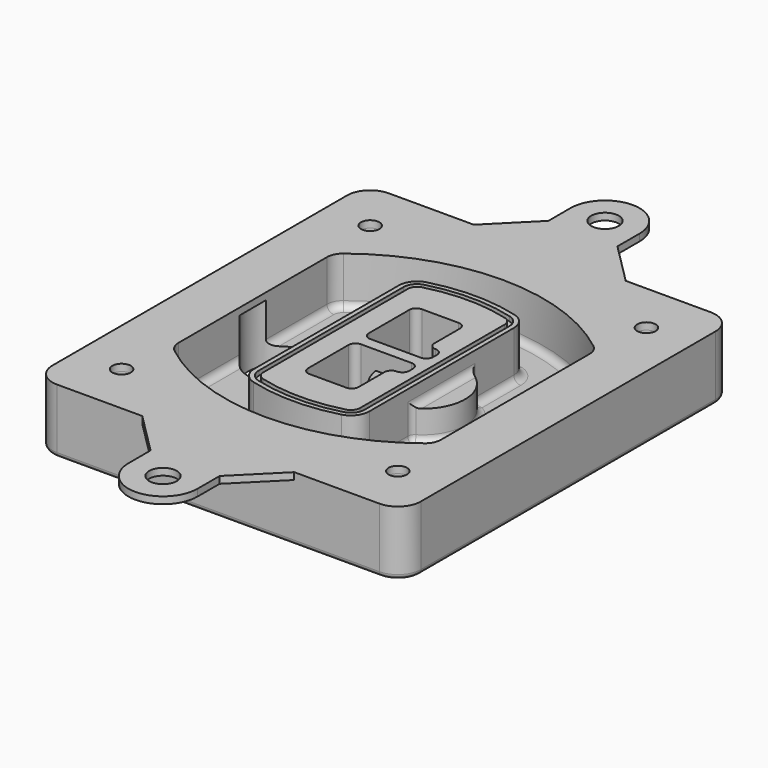
from build123d import *

# Parameters (mm, degrees)
F0_R      = 4
F1_DEPTH  = 25
F2_DEPTH  = 3
F3_DEPTH  = 18
F5_DEPTH  = 21
F6_DEPTH  = 2
F8_DEPTH  = 20
F9_DEPTH  = 16
F10_DEPTH = 25
F7_R      = 6
F7_R_2    = 4
F11_DEPTH = 6
F13_DEPTH = 9
F14_R     = 3
F15_R     = 2
F16_R     = 6
F16_R_2   = 4
F17_DEPTH = 3


with BuildPart() as f1:
    # F0 (on Top) → F1 (new body)
    with BuildSketch(Plane.XY):
        with BuildLine():
            ThreePointArc((-80, -80), (-77.0710678119, -87.0710678119), (-70, -90))
            Line((-70, -90), (70, -90))
            ThreePointArc((70, -90), (77.0710678119, -87.0710678119), (80, -80))
            Line((80, -80), (80, 80))
            ThreePointArc((80, 80), (77.0710678119, 87.0710678119), (70, 90))
            Line((70, 90), (-70, 90))
            ThreePointArc((-70, 90), (-77.0710678119, 87.0710678119), (-80, 80))
            Line((-80, 80), (-80, -80))
        make_face()
        with Locations((-60, -67.5)):
            Circle(F0_R, mode=Mode.SUBTRACT)
        with Locations((60, -67.5)):
            Circle(F0_R, mode=Mode.SUBTRACT)
        with Locations((-60, 67.5)):
            Circle(F0_R, mode=Mode.SUBTRACT)
        with BuildLine():
            ThreePointArc((-64, 40.2934422872), (-62.5820384798, 46.4328484224), (-58.6153846154, 51.3286200352))
            ThreePointArc((-58.6153846154, 51.3286200352), (0, 71.5), (58.6153846154, 51.3286200352))
            ThreePointArc((58.6153846154, 51.3286200352), (62.5820384798, 46.4328484224), (64, 40.2934422872))
            Line((64, 40.2934422872), (64, -40.2934422872))
            ThreePointArc((64, -40.2934422872), (62.5820384798, -46.4328484224), (58.6153846154, -51.3286200352))
            ThreePointArc((58.6153846154, -51.3286200352), (0, -71.5), (-58.6153846154, -51.3286200352))
            ThreePointArc((-58.6153846154, -51.3286200352), (-62.5820384798, -46.4328484224), (-64, -40.2934422872))
            Line((-64, -40.2934422872), (-64, 40.2934422872))
        make_face(mode=Mode.SUBTRACT)
        with Locations((60, 67.5)):
            Circle(F0_R, mode=Mode.SUBTRACT)
        with BuildLine():
            ThreePointArc((58.6153846154, 51.3286200352), (0, 71.5), (-58.6153846154, 51.3286200352))
            ThreePointArc((-58.6153846154, 51.3286200352), (-62.5820384798, 46.4328484224), (-64, 40.2934422872))
            Line((-64, 40.2934422872), (-64, -40.2934422872))
            ThreePointArc((-64, -40.2934422872), (-62.5820384798, -46.4328484224), (-58.6153846154, -51.3286200352))
            ThreePointArc((-58.6153846154, -51.3286200352), (0, -71.5), (58.6153846154, -51.3286200352))
            ThreePointArc((58.6153846154, -51.3286200352), (62.5820384798, -46.4328484224), (64, -40.2934422872))
            Line((64, -40.2934422872), (64, 40.2934422872))
            ThreePointArc((64, 40.2934422872), (62.5820384798, 46.4328484224), (58.6153846154, 51.3286200352))
        make_face()
        with BuildLine():
            Line((-60, -40.2934422872), (-60, 40.2934422872))
            ThreePointArc((-60, 40.2934422872), (-58.9871703427, 44.6787323838), (-56.1538461538, 48.1757121072))
            ThreePointArc((-56.1538461538, 48.1757121072), (0, 67.5), (56.1538461538, 48.1757121072))
            ThreePointArc((56.1538461538, 48.1757121072), (58.9871703427, 44.6787323838), (60, 40.2934422872))
            Line((60, 40.2934422872), (60, -40.2934422872))
            ThreePointArc((60, -40.2934422872), (58.9871703427, -44.6787323838), (56.1538461538, -48.1757121072))
            ThreePointArc((56.1538461538, -48.1757121072), (0, -67.5), (-56.1538461538, -48.1757121072))
            ThreePointArc((-56.1538461538, -48.1757121072), (-58.9871703427, -44.6787323838), (-60, -40.2934422872))
        make_face(mode=Mode.SUBTRACT)
        with BuildLine():
            ThreePointArc((-56.1538461538, 48.1757121072), (-58.9871703427, 44.6787323838), (-60, 40.2934422872))
            Line((-60, 40.2934422872), (-60, -40.2934422872))
            ThreePointArc((-60, -40.2934422872), (-58.9871703427, -44.6787323838), (-56.1538461538, -48.1757121072))
            ThreePointArc((-56.1538461538, -48.1757121072), (0, -67.5), (56.1538461538, -48.1757121072))
            ThreePointArc((56.1538461538, -48.1757121072), (58.9871703427, -44.6787323838), (60, -40.2934422872))
            Line((60, -40.2934422872), (60, 40.2934422872))
            ThreePointArc((60, 40.2934422872), (58.9871703427, 44.6787323838), (56.1538461538, 48.1757121072))
            ThreePointArc((56.1538461538, 48.1757121072), (0, 67.5), (-56.1538461538, 48.1757121072))
        make_face()
        with BuildLine():
            ThreePointArc((54.3076923077, 45.8110311612), (56.2910192399, 43.3631453548), (57, 40.2934422872))
            Line((57, 40.2934422872), (57, -40.2934422872))
            ThreePointArc((57, -40.2934422872), (56.2910192399, -43.3631453548), (54.3076923077, -45.8110311612))
            ThreePointArc((54.3076923077, -45.8110311612), (0, -64.5), (-54.3076923077, -45.8110311612))
            ThreePointArc((-54.3076923077, -45.8110311612), (-56.2910192399, -43.3631453548), (-57, -40.2934422872))
            Line((-57, -40.2934422872), (-57, 40.2934422872))
            ThreePointArc((-57, 40.2934422872), (-56.2910192399, 43.3631453548), (-54.3076923077, 45.8110311612))
            ThreePointArc((-54.3076923077, 45.8110311612), (0, 64.5), (54.3076923077, 45.8110311612))
        make_face(mode=Mode.SUBTRACT)
        with BuildLine():
            Line((57, -40.2934422872), (57, 40.2934422872))
            ThreePointArc((57, 40.2934422872), (56.2910192399, 43.3631453548), (54.3076923077, 45.8110311612))
            ThreePointArc((54.3076923077, 45.8110311612), (0, 64.5), (-54.3076923077, 45.8110311612))
            ThreePointArc((-54.3076923077, 45.8110311612), (-56.2910192399, 43.3631453548), (-57, 40.2934422872))
            Line((-57, 40.2934422872), (-57, -40.2934422872))
            ThreePointArc((-57, -40.2934422872), (-56.2910192399, -43.3631453548), (-54.3076923077, -45.8110311612))
            ThreePointArc((-54.3076923077, -45.8110311612), (0, -64.5), (54.3076923077, -45.8110311612))
            ThreePointArc((54.3076923077, -45.8110311612), (56.2910192399, -43.3631453548), (57, -40.2934422872))
        make_face()
    extrude(amount=-F1_DEPTH)

    # F0 (on Top) → F2 (join)
    with BuildSketch(Plane.XY):
        with BuildLine():
            ThreePointArc((-56.1538461538, 48.1757121072), (-58.9871703427, 44.6787323838), (-60, 40.2934422872))
            Line((-60, 40.2934422872), (-60, -40.2934422872))
            ThreePointArc((-60, -40.2934422872), (-58.9871703427, -44.6787323838), (-56.1538461538, -48.1757121072))
            ThreePointArc((-56.1538461538, -48.1757121072), (0, -67.5), (56.1538461538, -48.1757121072))
            ThreePointArc((56.1538461538, -48.1757121072), (58.9871703427, -44.6787323838), (60, -40.2934422872))
            Line((60, -40.2934422872), (60, 40.2934422872))
            ThreePointArc((60, 40.2934422872), (58.9871703427, 44.6787323838), (56.1538461538, 48.1757121072))
            ThreePointArc((56.1538461538, 48.1757121072), (0, 67.5), (-56.1538461538, 48.1757121072))
        make_face()
        with BuildLine():
            ThreePointArc((54.3076923077, 45.8110311612), (56.2910192399, 43.3631453548), (57, 40.2934422872))
            Line((57, 40.2934422872), (57, -40.2934422872))
            ThreePointArc((57, -40.2934422872), (56.2910192399, -43.3631453548), (54.3076923077, -45.8110311612))
            ThreePointArc((54.3076923077, -45.8110311612), (0, -64.5), (-54.3076923077, -45.8110311612))
            ThreePointArc((-54.3076923077, -45.8110311612), (-56.2910192399, -43.3631453548), (-57, -40.2934422872))
            Line((-57, -40.2934422872), (-57, 40.2934422872))
            ThreePointArc((-57, 40.2934422872), (-56.2910192399, 43.3631453548), (-54.3076923077, 45.8110311612))
            ThreePointArc((-54.3076923077, 45.8110311612), (0, 64.5), (54.3076923077, 45.8110311612))
        make_face(mode=Mode.SUBTRACT)
    extrude(amount=F2_DEPTH)

    # F0 (on Top) → F3 (cut)
    with BuildSketch(Plane.XY):
        with BuildLine():
            Line((57, -40.2934422872), (57, 40.2934422872))
            ThreePointArc((57, 40.2934422872), (56.2910192399, 43.3631453548), (54.3076923077, 45.8110311612))
            ThreePointArc((54.3076923077, 45.8110311612), (0, 64.5), (-54.3076923077, 45.8110311612))
            ThreePointArc((-54.3076923077, 45.8110311612), (-56.2910192399, 43.3631453548), (-57, 40.2934422872))
            Line((-57, 40.2934422872), (-57, -40.2934422872))
            ThreePointArc((-57, -40.2934422872), (-56.2910192399, -43.3631453548), (-54.3076923077, -45.8110311612))
            ThreePointArc((-54.3076923077, -45.8110311612), (0, -64.5), (54.3076923077, -45.8110311612))
            ThreePointArc((54.3076923077, -45.8110311612), (56.2910192399, -43.3631453548), (57, -40.2934422872))
        make_face()
    extrude(amount=-F3_DEPTH, mode=Mode.SUBTRACT)

    # F4 (on face) → F5 (join, through all)
    with BuildSketch(Plane.XY.offset(3)):
        with BuildLine():
            ThreePointArc((-25, -39.2465276821), (-23.3511545998, -44.1109737193), (-19.0842911877, -46.9702398883))
            ThreePointArc((-19.0842911877, -46.9702398883), (0, -49.5), (19.0842911877, -46.9702398883))
            ThreePointArc((19.0842911877, -46.9702398883), (23.3511545998, -44.1109737193), (25, -39.2465276821))
            Line((25, -39.2465276821), (25, 39.2465276821))
            ThreePointArc((25, 39.2465276821), (23.3511545998, 44.1109737193), (19.0842911877, 46.9702398883))
            ThreePointArc((19.0842911877, 46.9702398883), (0, 49.5), (-19.0842911877, 46.9702398883))
            ThreePointArc((-19.0842911877, 46.9702398883), (-23.3511545998, 44.1109737193), (-25, 39.2465276821))
            Line((-25, 39.2465276821), (-25, -39.2465276821))
        make_face()
        with BuildLine():
            ThreePointArc((18.5632183908, 45.0393118368), (21.7633659499, 42.89486221), (23, 39.2465276821))
            Line((23, 39.2465276821), (23, -39.2465276821))
            ThreePointArc((23, -39.2465276821), (21.7633659499, -42.89486221), (18.5632183908, -45.0393118368))
            ThreePointArc((18.5632183908, -45.0393118368), (0, -47.5), (-18.5632183908, -45.0393118368))
            ThreePointArc((-18.5632183908, -45.0393118368), (-21.7633659499, -42.89486221), (-23, -39.2465276821))
            Line((-23, -39.2465276821), (-23, 39.2465276821))
            ThreePointArc((-23, 39.2465276821), (-21.7633659499, 42.89486221), (-18.5632183908, 45.0393118368))
            ThreePointArc((-18.5632183908, 45.0393118368), (0, 47.5), (18.5632183908, 45.0393118368))
        make_face(mode=Mode.SUBTRACT)
        with BuildLine():
            Line((23, -39.2465276821), (23, 39.2465276821))
            ThreePointArc((23, 39.2465276821), (21.7633659499, 42.89486221), (18.5632183908, 45.0393118368))
            ThreePointArc((18.5632183908, 45.0393118368), (0, 47.5), (-18.5632183908, 45.0393118368))
            ThreePointArc((-18.5632183908, 45.0393118368), (-21.7633659499, 42.89486221), (-23, 39.2465276821))
            Line((-23, 39.2465276821), (-23, -39.2465276821))
            ThreePointArc((-23, -39.2465276821), (-21.7633659499, -42.89486221), (-18.5632183908, -45.0393118368))
            ThreePointArc((-18.5632183908, -45.0393118368), (0, -47.5), (18.5632183908, -45.0393118368))
            ThreePointArc((18.5632183908, -45.0393118368), (21.7633659499, -42.89486221), (23, -39.2465276821))
        make_face()
        with BuildLine():
            ThreePointArc((18.0421455939, 43.1083837852), (20.1755772999, 41.6787507007), (21, 39.2465276821))
            Line((21, 39.2465276821), (21, -39.2465276821))
            ThreePointArc((21, -39.2465276821), (20.1755772999, -41.6787507007), (18.0421455939, -43.1083837852))
            ThreePointArc((18.0421455939, -43.1083837852), (0, -45.5), (-18.0421455939, -43.1083837852))
            ThreePointArc((-18.0421455939, -43.1083837852), (-20.1755772999, -41.6787507007), (-21, -39.2465276821))
            Line((-21, -39.2465276821), (-21, 39.2465276821))
            ThreePointArc((-21, 39.2465276821), (-20.1755772999, 41.6787507007), (-18.0421455939, 43.1083837852))
            ThreePointArc((-18.0421455939, 43.1083837852), (0, 45.5), (18.0421455939, 43.1083837852))
        make_face(mode=Mode.SUBTRACT)
        with BuildLine():
            Line((21, -39.2465276821), (21, 39.2465276821))
            ThreePointArc((21, 39.2465276821), (20.1755772999, 41.6787507007), (18.0421455939, 43.1083837852))
            ThreePointArc((18.0421455939, 43.1083837852), (0, 45.5), (-18.0421455939, 43.1083837852))
            ThreePointArc((-18.0421455939, 43.1083837852), (-20.1755772999, 41.6787507007), (-21, 39.2465276821))
            Line((-21, 39.2465276821), (-21, -39.2465276821))
            ThreePointArc((-21, -39.2465276821), (-20.1755772999, -41.6787507007), (-18.0421455939, -43.1083837852))
            ThreePointArc((-18.0421455939, -43.1083837852), (0, -45.5), (18.0421455939, -43.1083837852))
            ThreePointArc((18.0421455939, -43.1083837852), (20.1755772999, -41.6787507007), (21, -39.2465276821))
        make_face()
        with BuildLine():
            Line((-8, -2.5), (14, -2.5))
            ThreePointArc((14, -2.5), (16.1213203436, -3.3786796564), (17, -5.5))
            Line((17, -5.5), (17, -7.5))
            ThreePointArc((17, -7.5), (16.1213203436, -9.6213203436), (14, -10.5))
            ThreePointArc((14, -10.5), (11.8786796564, -11.3786796564), (11, -13.5))
            Line((11, -13.5), (11, -27.5))
            ThreePointArc((11, -27.5), (10.1213203436, -29.6213203436), (8, -30.5))
            Line((8, -30.5), (-8, -30.5))
            ThreePointArc((-8, -30.5), (-10.1213203436, -29.6213203436), (-11, -27.5))
            Line((-11, -27.5), (-11, -5.5))
            ThreePointArc((-11, -5.5), (-10.1213203436, -3.3786796564), (-8, -2.5))
        make_face(mode=Mode.SUBTRACT)
        with BuildLine():
            ThreePointArc((-8, 2.5), (-10.1213203436, 3.3786796564), (-11, 5.5))
            Line((-11, 5.5), (-11, 27.5))
            ThreePointArc((-11, 27.5), (-10.1213203436, 29.6213203436), (-8, 30.5))
            Line((-8, 30.5), (8, 30.5))
            ThreePointArc((8, 30.5), (10.1213203436, 29.6213203436), (11, 27.5))
            Line((11, 27.5), (11, 13.5))
            ThreePointArc((11, 13.5), (11.8786796564, 11.3786796564), (14, 10.5))
            ThreePointArc((14, 10.5), (16.1213203436, 9.6213203436), (17, 7.5))
            Line((17, 7.5), (17, 5.5))
            ThreePointArc((17, 5.5), (16.1213203436, 3.3786796564), (14, 2.5))
            Line((14, 2.5), (-8, 2.5))
        make_face(mode=Mode.SUBTRACT)
    extrude(amount=-F5_DEPTH)

    # F4 (on face) → F6 (cut)
    with BuildSketch(Plane.XY.offset(3)):
        with BuildLine():
            Line((23, -39.2465276821), (23, 39.2465276821))
            ThreePointArc((23, 39.2465276821), (21.7633659499, 42.89486221), (18.5632183908, 45.0393118368))
            ThreePointArc((18.5632183908, 45.0393118368), (0, 47.5), (-18.5632183908, 45.0393118368))
            ThreePointArc((-18.5632183908, 45.0393118368), (-21.7633659499, 42.89486221), (-23, 39.2465276821))
            Line((-23, 39.2465276821), (-23, -39.2465276821))
            ThreePointArc((-23, -39.2465276821), (-21.7633659499, -42.89486221), (-18.5632183908, -45.0393118368))
            ThreePointArc((-18.5632183908, -45.0393118368), (0, -47.5), (18.5632183908, -45.0393118368))
            ThreePointArc((18.5632183908, -45.0393118368), (21.7633659499, -42.89486221), (23, -39.2465276821))
        make_face()
        with BuildLine():
            ThreePointArc((18.0421455939, 43.1083837852), (20.1755772999, 41.6787507007), (21, 39.2465276821))
            Line((21, 39.2465276821), (21, -39.2465276821))
            ThreePointArc((21, -39.2465276821), (20.1755772999, -41.6787507007), (18.0421455939, -43.1083837852))
            ThreePointArc((18.0421455939, -43.1083837852), (0, -45.5), (-18.0421455939, -43.1083837852))
            ThreePointArc((-18.0421455939, -43.1083837852), (-20.1755772999, -41.6787507007), (-21, -39.2465276821))
            Line((-21, -39.2465276821), (-21, 39.2465276821))
            ThreePointArc((-21, 39.2465276821), (-20.1755772999, 41.6787507007), (-18.0421455939, 43.1083837852))
            ThreePointArc((-18.0421455939, 43.1083837852), (0, 45.5), (18.0421455939, 43.1083837852))
        make_face(mode=Mode.SUBTRACT)
    extrude(amount=-F6_DEPTH, mode=Mode.SUBTRACT)

    # F7 (on face) → F8 (join)
    with BuildSketch(Plane(origin=(0, 0, -25), x_dir=(1, 0, 0), z_dir=(0, 0, -1))):
        with BuildLine():
            ThreePointArc((3.28842436, 0), (16.7567035675, 13.4682792075), (30.224982775, 0))
            Line((30.224982775, 0), (35.224982775, 0))
            ThreePointArc((35.224982775, 0), (16.7567035675, 18.4682792075), (-1.71157564, 0))
            Line((-1.71157564, 0), (3.28842436, 0))
        make_face()
        with BuildLine():
            Line((3.28842436, 0), (30.224982775, 0))
            ThreePointArc((30.224982775, 0), (16.7567035675, 13.4682792075), (3.28842436, 0))
        make_face()
        with BuildLine():
            ThreePointArc((3.28842436, 0), (16.7567035675, -13.4682792075), (30.224982775, 0))
            Line((30.224982775, 0), (3.28842436, 0))
        make_face()
        with BuildLine():
            Line((35.224982775, 0), (30.224982775, 0))
            ThreePointArc((30.224982775, 0), (16.7567035675, -13.4682792075), (3.28842436, 0))
            Line((3.28842436, 0), (-1.71157564, 0))
            ThreePointArc((-1.71157564, 0), (16.7567035675, -18.4682792075), (35.224982775, 0))
        make_face()
    extrude(amount=-F8_DEPTH)

    # F7 (on face) → F9 (cut)
    with BuildSketch(Plane(origin=(0, 0, -25), x_dir=(1, 0, 0), z_dir=(0, 0, -1))):
        with BuildLine():
            Line((3.28842436, 0), (30.224982775, 0))
            ThreePointArc((30.224982775, 0), (16.7567035675, 13.4682792075), (3.28842436, 0))
        make_face()
        with BuildLine():
            ThreePointArc((3.28842436, 0), (16.7567035675, -13.4682792075), (30.224982775, 0))
            Line((30.224982775, 0), (3.28842436, 0))
        make_face()
    extrude(amount=-F9_DEPTH, mode=Mode.SUBTRACT)

    # F7 (on face) → F10 (cut)
    with BuildSketch(Plane(origin=(0, 0, -25), x_dir=(1, 0, 0), z_dir=(0, 0, -1))):
        with BuildLine():
            Line((-59.0318229325, 0), (-32.0952645175, 0))
            ThreePointArc((-32.0952645175, 0), (-45.563543725, 13.4682792075), (-59.0318229325, 0))
        make_face()
        with BuildLine():
            ThreePointArc((-59.0318229325, 0), (-45.563543725, -13.4682792075), (-32.0952645175, 0))
            Line((-32.0952645175, 0), (-59.0318229325, 0))
        make_face()
    extrude(amount=-F10_DEPTH, mode=Mode.SUBTRACT)

    # F7 (on face) → F11 (cut)
    with BuildSketch(Plane(origin=(0, 0, -25), x_dir=(1, 0, 0), z_dir=(0, 0, -1))):
        with Locations((60, -67.5)):
            Circle(F7_R)
        with Locations((60, -67.5)):
            Circle(F7_R_2, mode=Mode.SUBTRACT)
        with Locations((60, -67.5)):
            Circle(F7_R)
        with Locations((60, -67.5)):
            Circle(F7_R_2, mode=Mode.SUBTRACT)
        with Locations((-60, -67.5)):
            Circle(F7_R)
        with Locations((-60, -67.5)):
            Circle(F7_R_2, mode=Mode.SUBTRACT)
        with Locations((-60, -67.5)):
            Circle(F7_R)
        with Locations((-60, -67.5)):
            Circle(F7_R_2, mode=Mode.SUBTRACT)
        with Locations((-60, 67.5)):
            Circle(F7_R)
        with Locations((-60, 67.5)):
            Circle(F7_R_2, mode=Mode.SUBTRACT)
        with Locations((-60, 67.5)):
            Circle(F7_R)
        with Locations((-60, 67.5)):
            Circle(F7_R_2, mode=Mode.SUBTRACT)
        with Locations((60, 67.5)):
            Circle(F7_R)
        with Locations((60, 67.5)):
            Circle(F7_R_2, mode=Mode.SUBTRACT)
        with Locations((60, 67.5)):
            Circle(F7_R)
        with Locations((60, 67.5)):
            Circle(F7_R_2, mode=Mode.SUBTRACT)
    extrude(amount=-F11_DEPTH, mode=Mode.SUBTRACT)

    # F12 (on face) → F13 (cut, through all)
    with BuildSketch(Plane(origin=(0, 0, -9), x_dir=(1, 0, 0), z_dir=(0, 0, -1))):
        with BuildLine():
            Line((11, 13.5), (11, 17.5481537753))
            ThreePointArc((11, 17.5481537753), (2.5696536419, 11.8239143813), (-1.5415842455, 2.5))
            Line((-1.5415842455, 2.5), (3.5224848595, 2.5))
            ThreePointArc((3.5224848595, 2.5), (6.1857188154, 8.3455872281), (11.2536447004, 12.2927168648))
            ThreePointArc((11.2536447004, 12.2927168648), (11.0640958889, 12.8831798879), (11, 13.5))
        make_face()
        with BuildLine():
            ThreePointArc((11.2536447004, -12.2927168648), (6.1857188154, -8.3455872281), (3.5224848595, -2.5))
            Line((3.5224848595, -2.5), (-1.5415842455, -2.5))
            ThreePointArc((-1.5415842455, -2.5), (2.5696536419, -11.8239143813), (11, -17.5481537753))
            Line((11, -17.5481537753), (11, -13.5))
            ThreePointArc((11, -13.5), (11.0640958889, -12.8831798879), (11.2536447004, -12.2927168648))
        make_face()
        with BuildLine():
            ThreePointArc((11.2536447004, 12.2927168648), (6.1857188154, 8.3455872281), (3.5224848595, 2.5))
            Line((3.5224848595, 2.5), (14, 2.5))
            ThreePointArc((14, 2.5), (16.1213203436, 3.3786796564), (17, 5.5))
            Line((17, 5.5), (17, 7.5))
            ThreePointArc((17, 7.5), (16.1213203436, 9.6213203436), (14, 10.5))
            ThreePointArc((14, 10.5), (12.3601599782, 10.9878446101), (11.2536447004, 12.2927168648))
        make_face()
        with BuildLine():
            Line((14, -2.5), (3.5224848595, -2.5))
            ThreePointArc((3.5224848595, -2.5), (6.1857188154, -8.3455872281), (11.2536447004, -12.2927168648))
            ThreePointArc((11.2536447004, -12.2927168648), (12.3601599782, -10.9878446101), (14, -10.5))
            ThreePointArc((14, -10.5), (16.1213203436, -9.6213203436), (17, -7.5))
            Line((17, -7.5), (17, -5.5))
            ThreePointArc((17, -5.5), (16.1213203436, -3.3786796564), (14, -2.5))
        make_face()
    extrude(amount=F13_DEPTH, mode=Mode.SUBTRACT)

    # F14
    f14_edges = [f1.edges().sort_by_distance(p)[0] for p in [
        (-57, -23.703476, -18),
        (-57, 23.703476, -18),
        (25, 0, -5),
        (25, 16.526506, -11.5),
        (25, -16.526506, -11.5),
        (25, -27.886517, -18),
        (35.224983, 0, -18),
    ]]
    fillet(f14_edges, radius=F14_R)

    # F15
    f15_edges = [f1.edges().sort_by_distance(p)[0] for p in [
        (0, -90, -25),
    ]]
    fillet(f15_edges, radius=F15_R)

    # F16 (on face) → F17 (join, through all)
    with BuildSketch(Plane.XY):
        with BuildLine():
            ThreePointArc((15, 120), (0, 135), (-15, 120))
            Line((-15, 120), (-15, 108))
            Line((-15, 108), (-33, 90))
            Line((-33, 90), (33, 90))
            Line((33, 90), (15, 108))
            Line((15, 108), (15, 120))
        make_face()
        with Locations((0, 120)):
            Circle(F16_R, mode=Mode.SUBTRACT)
        with BuildLine():
            Line((33, 90), (-33, 90))
            Line((-33, 90), (-70, 90))
            ThreePointArc((-70, 90), (-77.0710678119, 87.0710678119), (-80, 80))
            Line((-80, 80), (-80, -80))
            ThreePointArc((-80, -80), (-77.0710678119, -87.0710678119), (-70, -90))
            Line((-70, -90), (-33, -90))
            Line((-33, -90), (33, -90))
            Line((33, -90), (70, -90))
            ThreePointArc((70, -90), (77.0710678119, -87.0710678119), (80, -80))
            Line((80, -80), (80, 80))
            ThreePointArc((80, 80), (77.0710678119, 87.0710678119), (70, 90))
            Line((70, 90), (33, 90))
        make_face()
        with Locations((-60, -67.5)):
            Circle(F16_R_2, mode=Mode.SUBTRACT)
        with Locations((60, -67.5)):
            Circle(F16_R_2, mode=Mode.SUBTRACT)
        with Locations((-60, 67.5)):
            Circle(F16_R_2, mode=Mode.SUBTRACT)
        with BuildLine():
            ThreePointArc((-60, 40.2934422872), (-58.9871703427, 44.6787323838), (-56.1538461538, 48.1757121072))
            ThreePointArc((-56.1538461538, 48.1757121072), (0, 67.5), (56.1538461538, 48.1757121072))
            ThreePointArc((56.1538461538, 48.1757121072), (58.9871703427, 44.6787323838), (60, 40.2934422872))
            Line((60, 40.2934422872), (60, -40.2934422872))
            ThreePointArc((60, -40.2934422872), (58.9871703427, -44.6787323838), (56.1538461538, -48.1757121072))
            ThreePointArc((56.1538461538, -48.1757121072), (0, -67.5), (-56.1538461538, -48.1757121072))
            ThreePointArc((-56.1538461538, -48.1757121072), (-58.9871703427, -44.6787323838), (-60, -40.2934422872))
            Line((-60, -40.2934422872), (-60, 40.2934422872))
        make_face(mode=Mode.SUBTRACT)
        with Locations((60, 67.5)):
            Circle(F16_R_2, mode=Mode.SUBTRACT)
        with BuildLine():
            Line((33, -90), (-33, -90))
            Line((-33, -90), (-15, -108))
            Line((-15, -108), (-15, -120))
            ThreePointArc((-15, -120), (0, -135), (15, -120))
            Line((15, -120), (15, -108))
            Line((15, -108), (33, -90))
        make_face()
        with Locations((0, -120)):
            Circle(F16_R, mode=Mode.SUBTRACT)
    extrude(amount=F17_DEPTH)


solid = f1.part
